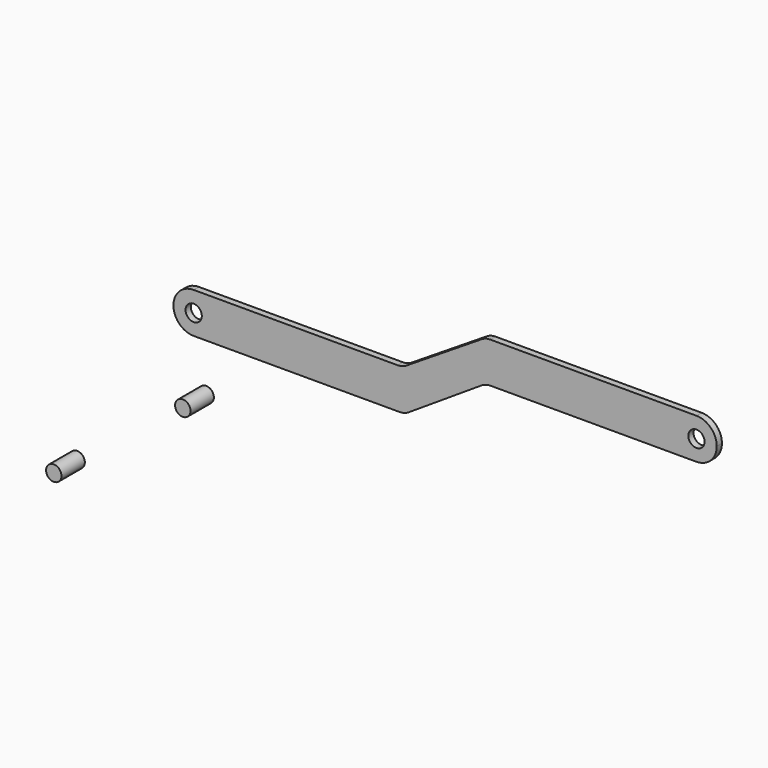
from build123d import *

# Parameters (mm, degrees)
F0_R      = 5
F0_R_2    = 4.75
F1_DEPTH  = 4
F1_FACE_R = 4.75
F2_DEPTH  = 14
F3_DEPTH  = 14


with BuildPart() as f1:
    # F0 (on Front) → F1 (new body)
    with BuildSketch(Plane.XZ):
        with BuildLine():
            Line((-189.891916, 22.344649), (-62.856317, 22.344649))
            ThreePointArc((-62.856317, 22.344649), (-60.014166, 22.757044), (-57.406433, 23.960213))
            Line((-57.406433, 23.960213), (-12.377399, 53.229085))
            ThreePointArc((-12.377399, 53.229085), (-9.769666, 54.432255), (-6.927515, 54.844649))
            Line((-6.927515, 54.844649), (120.108084, 54.844649))
            ThreePointArc((120.108084, 54.844649), (128.946919, 58.505815), (132.608084, 67.344649))
            ThreePointArc((132.608084, 67.344649), (128.946919, 76.183484), (120.108084, 79.844649))
            Line((120.108084, 79.844649), (-6.991172, 79.844649))
            ThreePointArc((-6.991172, 79.844649), (-9.777076, 79.448749), (-12.342392, 78.292397))
            Line((-12.342392, 78.292397), (-58.747838, 48.896901))
            ThreePointArc((-58.747838, 48.896901), (-61.313154, 47.740549), (-64.099058, 47.344649))
            Line((-64.099058, 47.344649), (-172.616858, 47.344649))
            Line((-172.616858, 47.344649), (-189.891916, 47.344649))
            ThreePointArc((-189.891916, 47.344649), (-202.391916, 34.844649), (-189.891916, 22.344649))
        make_face()
        with Locations((-189.891916, 34.844649)):
            Circle(F0_R, mode=Mode.SUBTRACT)
        with Locations((120.108084, 67.344649)):
            Circle(F0_R, mode=Mode.SUBTRACT)
        with Locations((-185.415551, -9.668712)):
            Circle(F0_R_2)
        with Locations((-264.971912, -70.814312)):
            Circle(F0_R_2)
    extrude(amount=F1_DEPTH)

    # F1_face (on face) → F2 (join)
    with BuildSketch(Plane(origin=(-185.415551, -4, -9.668712), x_dir=(1, 0, 0), z_dir=(0, -1, 0))):
        Circle(F1_FACE_R)
    extrude(amount=F2_DEPTH)

    # F1_face (on face) → F3 (join)
    with BuildSketch(Plane(origin=(-185.415551, -4, -9.668712), x_dir=(1, 0, 0), z_dir=(0, -1, 0))):
        with Locations((-79.556361, -61.1456)):
            Circle(F1_FACE_R)
    extrude(amount=F3_DEPTH)


solid = f1.part
